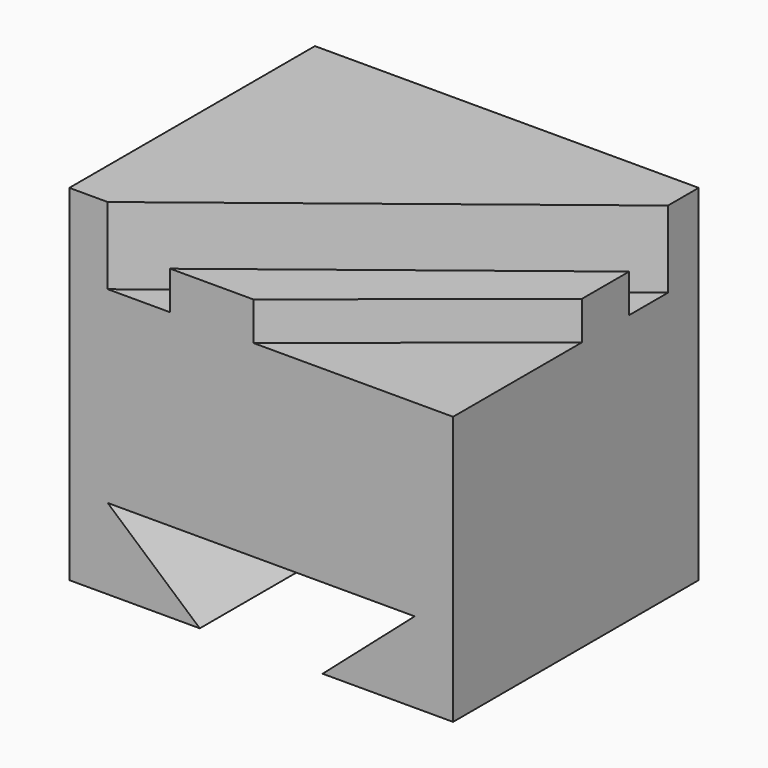
from build123d import *

# Parameters (mm, degrees)
F0_W     = 50
F0_H     = 40
F1_DEPTH = 40
F3_DEPTH = 40.001
F5_DEPTH = 5
F6_DEPTH = 5
F7_DEPTH = 5


with BuildPart() as f1:
    # F0 (on Front) → F1 (new body)
    with BuildSketch(Plane.XZ):
        Rectangle(F0_W, F0_H)
    extrude(amount=F1_DEPTH)

    # F2 (on face) → F3 (cut, through all)
    with BuildSketch(Plane.XZ.offset(40)):
        Polygon((-20, -9.515879), (-8, -20), (8, -20), (20, -9.515879), (0, -9.515879), align=None)
    extrude(amount=-F3_DEPTH, mode=Mode.SUBTRACT)

    # F4 (on face) → F5 (join)
    with BuildSketch(Plane.XY.offset(20)):
        Polygon((-25, 0), (-25, -40), (-20, -40), (25, -5), (25, 0), align=None)
    extrude(amount=F5_DEPTH)

    # F4 (on face) → F6 (cut)
    with BuildSketch(Plane.XY.offset(20)):
        Polygon((25, -5), (-20, -40), (-11.85589, -40), (25, -11.334308), align=None)
    extrude(amount=-F6_DEPTH, mode=Mode.SUBTRACT)

    # F4 (on face) → F7 (cut)
    with BuildSketch(Plane.XY.offset(20)):
        Polygon((25, -19), (-1, -40), (25, -40), align=None)
    extrude(amount=-F7_DEPTH, mode=Mode.SUBTRACT)


solid = f1.part
